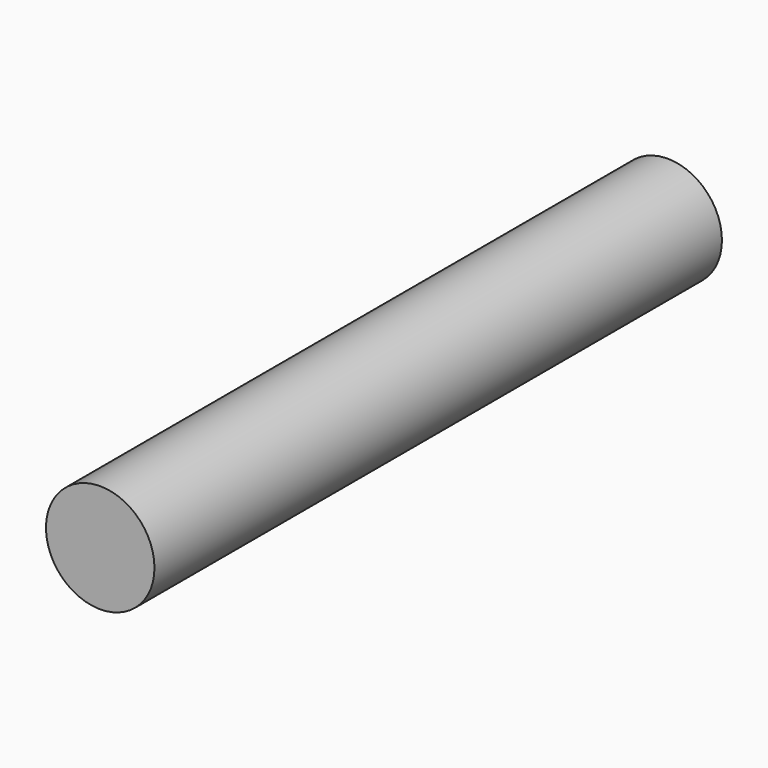
from build123d import *

# Parameters (mm, degrees)
F0_R     = 13
F1_DEPTH = 170
F3_D     = 20
F3_DEPTH = 25
F3_TIP   = 6.0086061903


with BuildPart() as f1:
    # F0 (on Front) → F1 (new body)
    with BuildSketch(Plane.XZ):
        Circle(F0_R)
    extrude(amount=F1_DEPTH)

    # F3 (one way)
    with BuildSketch(Plane.YZ):
        with Locations((-109.3930645368, 0)):
            Circle(F3_D / 2)
    extrude(amount=-F3_DEPTH, mode=Mode.SUBTRACT)
    with Locations(Plane.YZ):
        with Locations((-109.3930645368, 0)):
            with Locations((0, 0, -(F3_DEPTH + F3_TIP / 2))):  # 118° drill point
                Cone(0, F3_D / 2, F3_TIP, mode=Mode.SUBTRACT)


solid = f1.part
